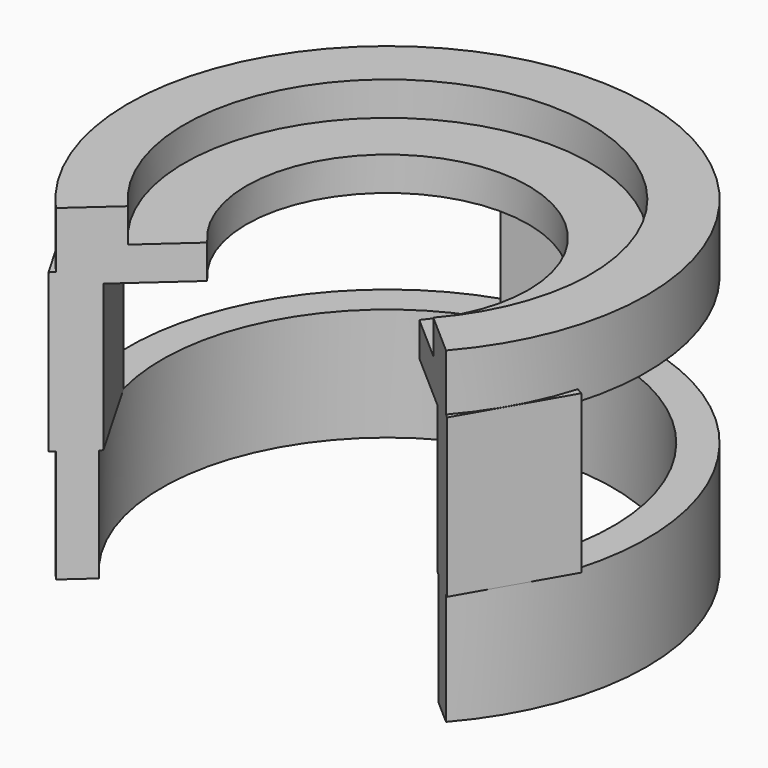
from build123d import *

# Parameters (mm, degrees)
F0_R      = 23
F0_R_2    = 20
F1_DEPTH  = 10
F3_R      = 23
F3_R_2    = 18
F4_DEPTH  = 6
F5_R      = 23
F5_R_2    = 12.5
F6_DEPTH  = 3
F7_W      = 10.728056
F7_H      = 3.725031
F8_DEPTH  = 14
F10_DEPTH = 20


with BuildPart() as f1:
    # F0 (on Top) → F1 (new body)
    with BuildSketch(Plane.XY):
        Circle(F0_R)
        Circle(F0_R_2, mode=Mode.SUBTRACT)
    extrude(amount=-F1_DEPTH)



with BuildPart() as f4:
    # F3 (on offset) → F4 (new body)
    with BuildSketch(Plane.XY.offset(13)):
        Circle(F3_R)
        Circle(F3_R_2, mode=Mode.SUBTRACT)
    extrude(amount=F4_DEPTH)


with BuildPart() as f6:
    # F5 (on offset) → F6 (new body)
    with BuildSketch(Plane.XY.offset(13)):
        Circle(F5_R)
        Circle(F5_R_2, mode=Mode.SUBTRACT)
    extrude(amount=F6_DEPTH)


with BuildPart() as f1_1:
    add(f1.part)

    add(f4.part)  # F8 merges F4

    add(f6.part)  # F8 merges F6
    # F7 (on Top) → F8 (join)
    with BuildSketch(Plane.XY):
        with Locations((-0.054133, 21.146403)):
            Rectangle(F7_W, F7_H)
        Polygon((-22.581255, -6.905955), (-17.217227, -16.196724), (-13.991256, -14.334209), (-19.355284, -5.043439), align=None)
        Polygon((17.27136, -16.102963), (22.635388, -6.812194), (19.409416, -4.949678), (14.045388, -14.240448), align=None)
    extrude(amount=F8_DEPTH)


with BuildPart() as f10:
    # F9 (on Top) → F10 (new body, symmetric)
    with BuildSketch(Plane.XY):
        Polygon((20.578749, -18.006055), (0, 0), (-19.199688, -17.210485), (0.803183, -30.16689), align=None)
    extrude(amount=F10_DEPTH, both=True)


with BuildPart() as f1_2:
    add(f1_1.part)

    # F11: cut F10
    add(f10.part, mode=Mode.SUBTRACT)


solid = f1_2.part
